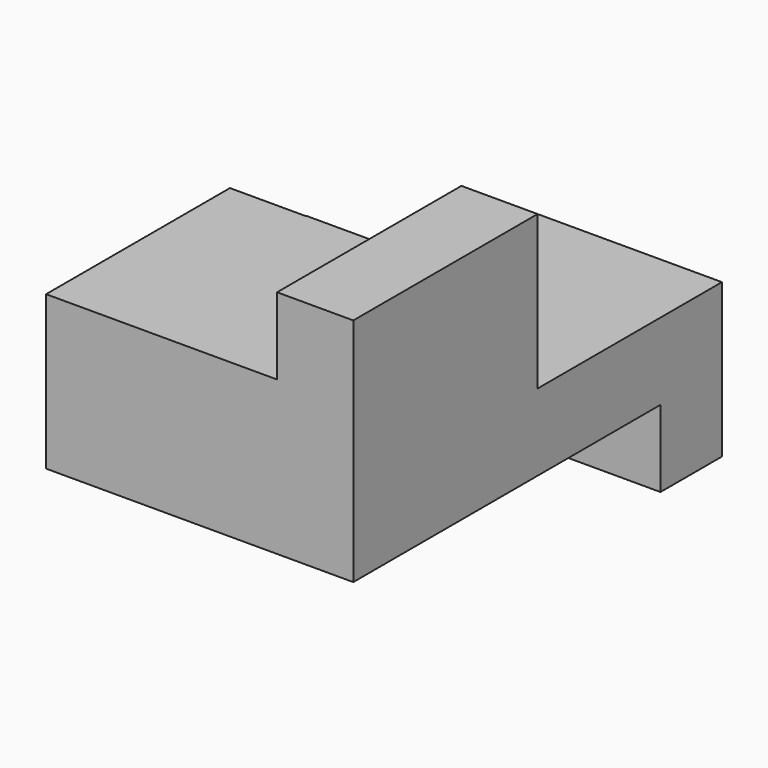
from build123d import *

# Parameters (mm, degrees)
F0_W      = 40
F0_H      = 40
F1_DEPTH  = 60
F2_W      = 10
F2_H      = 10
F3_DEPTH  = 50
F4_W      = 9.863964282
F4_H      = 30.0770029426
F5_DEPTH  = 20
F7_DEPTH  = 10
F8_DEPTH  = 30.001
F9_DEPTH  = 20.001
F10_W     = 30.136035718
F10_H     = 30
F11_DEPTH = 20
F12_DEPTH = 20


with BuildPart() as f1:
    # F0 (on Front) → F1 (new body)
    with BuildSketch(Plane.XZ):
        with Locations((20, 20)):
            Rectangle(F0_W, F0_H)
    extrude(amount=F1_DEPTH)

    # F2 (on face) → F3 (cut)
    with BuildSketch(Plane.XZ.offset(60)):
        with Locations((5, 5)):
            Rectangle(F2_W, F2_H)
    extrude(amount=-F3_DEPTH, mode=Mode.SUBTRACT)

    # F4 (on face) → F5 (cut)
    with BuildSketch(Plane.XY.offset(40)):
        with Locations((4.931982141, -15.0385014713)):
            Rectangle(F4_W, F4_H)
    extrude(amount=-F5_DEPTH, mode=Mode.SUBTRACT)

    # F6 (on face) → F7 (cut)
    with BuildSketch(Plane.XY.offset(40)):
        Polygon((0, -30.0770029426), (0, -60), (30.0770048052, -60), (30.0770048052, -30.0770029426), (9.863964282, -30.0770029426), align=None)
    extrude(amount=-F7_DEPTH, mode=Mode.SUBTRACT)

    # F8 (cut, through all): a face of the model
    f8_faces = [f1.faces().sort_by_distance(p)[0] for p in [
        (10, -35, 5),
    ]]
    extrude(f8_faces, amount=-F8_DEPTH, mode=Mode.SUBTRACT)

    # F9 (cut, through all): a face of the model
    f9_faces = [f1.faces().sort_by_distance(p)[0] for p in [
        (4.931982141, -15.0385014713, 20),
    ]]
    extrude(f9_faces, amount=-F9_DEPTH, mode=Mode.SUBTRACT)

    # F10 (on face) → F11 (cut)
    with BuildSketch(Plane.XY.offset(40)):
        with Locations((24.931982141, -15)):
            Rectangle(F10_W, F10_H)
    extrude(amount=-F11_DEPTH, mode=Mode.SUBTRACT)

    # F12 (cut): a face of the model
    f12_faces = [f1.faces().sort_by_distance(p)[0] for p in [
        (19.9704845436, -30.0770029426, 35),
    ]]
    extrude(f12_faces, amount=-F12_DEPTH, mode=Mode.SUBTRACT)


solid = f1.part
